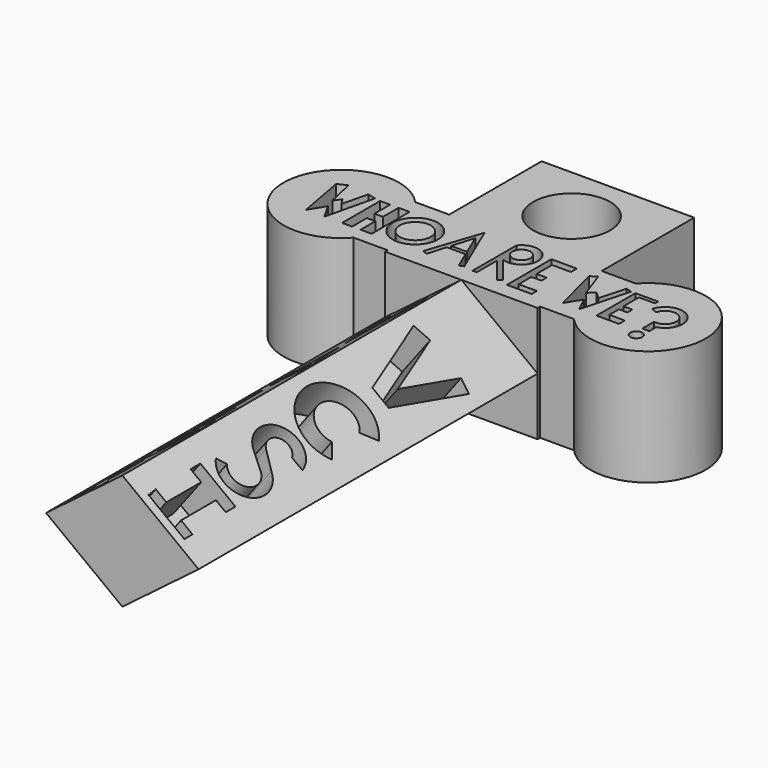
from build123d import *

# Parameters (mm, degrees)
F0_R     = 6.35
F1_DEPTH = 19.05
F3_DEPTH = 69.85
F5_DEPTH = 7.62
F6_R     = 3.7308363244
F6_R_2   = 2.5566692752
F6_R_3   = 1.4847463739
F6_R_4   = 0.9834738448
F7_DEPTH = 7.62
F8_R     = 5.375793912
F8_R_2   = 2.9959266517
F8_R_3   = 1.4654397964
F9_DEPTH = 7.62


with BuildPart() as f1:
    # F0 (on Top) → F1 (new body)
    with BuildSketch(Plane.XY):
        Polygon((-7.2489807278, 40.0127134857), (-32.3949807278, 40.0127134857), (-32.3949807278, 20.9627134857), (-19.8219807278, 20.9627134857), (-7.2489807278, 20.9627134857), align=None)
        with Locations((-19.8219807278, 30.4877134857)):
            Circle(F0_R, mode=Mode.SUBTRACT)
        Polygon((-19.8219807278, 20.9627134857), (-32.3949807278, 20.9627134857), (-37.9954648992, 20.9627134857), (-45.0949807278, 20.9627134857), (-45.0949807278, 8.2627134857), (-37.9954648992, 8.2627134857), (-32.3949807278, 8.2627134857), (-19.8219807278, 8.2627134857), align=None)
        Polygon((-1.6484965563, 20.9627134857), (-7.2489807278, 20.9627134857), (-19.8219807278, 20.9627134857), (-19.8219807278, 8.2627134857), (-7.2489807278, 8.2627134857), (-1.6484965563, 8.2627134857), (5.4510192722, 8.2627134857), (5.4510192722, 20.9627134857), align=None)
        with BuildLine():
            ThreePointArc((-1.6484965563, 8.2627134857), (14.9760192722, 14.6127134857), (-1.6484965563, 20.9627134857))
            Line((-1.6484965563, 20.9627134857), (5.4510192722, 20.9627134857))
            Line((5.4510192722, 20.9627134857), (5.4510192722, 8.2627134857))
            Line((5.4510192722, 8.2627134857), (-1.6484965563, 8.2627134857))
        make_face()
        with BuildLine():
            Line((-45.0949807278, 20.9627134857), (-37.9954648992, 20.9627134857))
            ThreePointArc((-37.9954648992, 20.9627134857), (-54.6199807278, 14.6127134857), (-37.9954648992, 8.2627134857))
            Line((-37.9954648992, 8.2627134857), (-45.0949807278, 8.2627134857))
            Line((-45.0949807278, 8.2627134857), (-45.0949807278, 20.9627134857))
        make_face()
        Polygon((-19.8219807278, -62.1057427843), (-19.8219807278, 8.2627134857), (-32.3949807278, 8.2627134857), (-32.3949807278, -45.4855053057), (-32.3949807278, -62.1057427843), align=None)
        Polygon((-7.2489807278, 8.2627134857), (-19.8219807278, 8.2627134857), (-19.8219807278, -62.1057427843), (-7.2489807278, -62.1057427843), (-7.2489807278, -45.4855053057), align=None)
    extrude(amount=F1_DEPTH)

    # F2 (on face) → F3 (cut)
    with BuildSketch(Plane.XZ.offset(62.1057427843)):
        Polygon((-7.2489807278, 19.05), (-19.8219807278, 19.05), (-7.2489807278, 9.525), align=None)
        Polygon((-7.2489807278, 0), (-7.2489807278, 9.525), (-19.8219807278, 0), align=None)
        Polygon((-19.8219807278, 0), (-32.3949807278, 9.525), (-32.3949807278, 0), align=None)
        Polygon((-32.3949807278, 9.525), (-19.8219807278, 19.05), (-32.3949807278, 19.05), align=None)
    extrude(amount=-F3_DEPTH, mode=Mode.SUBTRACT)

    # F4 (on face) → F5 (cut)
    with BuildSketch(Plane(origin=(1.941372255, 0, 2.5626113767), x_dir=(0.7970921482, 0, -0.603857688), z_dir=(0.603857688, 0, 0.7970921482))):
        Polygon((-22.4414020184, -3.5018214989), (-25.2070780843, -4.1756043211), (-20.8209604025, -17.0434247702), (-17.4470283091, -17.0434247702), (-13.7356976047, -4.1756043211), (-16.0718182763, -3.5018214989), (-18.9912109774, -13.623856987), align=None)
        with BuildLine():
            Line((-16.5130108705, -23.9663783476), (-14.3175468283, -22.1902052494))
            ThreePointArc((-14.3175468283, -22.1902052494), (-25.2788456852, -25.3796842634), (-15.2942013906, -30.9140972693))
            Line((-15.2942013906, -30.9140972693), (-17.2991389661, -28.8815116944))
            ThreePointArc((-17.2991389661, -28.8815116944), (-22.4511104186, -25.5370701612), (-16.5130108705, -23.9663783476))
        make_face()
        with BuildLine():
            Line((-18.1253950489, -36.264386009), (-16.0028406488, -36.264386009))
            ThreePointArc((-16.0028406488, -36.264386009), (-22.237133863, -34.1678212549), (-21.6870955644, -40.7221674098))
            Line((-21.6870955644, -40.7221674098), (-21.4033412526, -40.8618388823))
            Line((-21.4033412526, -40.8618388823), (-18.6979664709, -42.1934968127))
            ThreePointArc((-18.6979664709, -42.1934968127), (-17.805316798, -45.971002363), (-21.6837275404, -46.1268925006))
            Line((-21.6837275404, -46.1268925006), (-23.0957365854, -47.0235973219))
            ThreePointArc((-23.0957365854, -47.0235973219), (-16.5803039673, -47.0965885124), (-17.9304689648, -40.7221674098))
            Line((-17.9304689648, -40.7221674098), (-20.8361911365, -38.9310287424))
            ThreePointArc((-20.8361911365, -38.9310287424), (-21.181852825, -35.8684820808), (-18.1253950489, -36.264386009))
        make_face()
        Polygon((-23.5201064497, -51.8032535911), (-21.3270522654, -51.8032535911), (-21.3270522654, -58.9891783893), (-23.5201064497, -58.9891783893), (-23.3514122665, -60.6603249907), (-15.9287583083, -60.6603249907), (-15.9248236824, -58.9891783893), (-18.2908926059, -58.9836076057), (-18.2908926059, -51.8032535911), (-16.2661504, -51.8032535911), (-16.2661504, -49.7978813946), (-23.5201064497, -49.7978813946), align=None)
    extrude(amount=-F5_DEPTH, mode=Mode.SUBTRACT)

    # F6 (on face) → F7 (cut)
    with BuildSketch(Plane.XY.offset(19.05)):
        Polygon((-47.6265437901, 19.2425753921), (-49.1034947336, 18.5475405306), (-47.6265437901, 10.4677481577), (-46.0627116263, 13.0741326138), (-44.5857606828, 10.4677481577), (-42.6744148135, 18.5475405306), (-44.0536325745, 18.8738066088), (-45.0949807278, 14.6127134857), (-45.8020754158, 15.767397359), (-46.5839877725, 14.6127134857), align=None)
        Polygon((-40.0680266321, 18.3737799525), (-41.7187400162, 18.3737799525), (-41.7187400162, 10.5546275154), (-40.0680266321, 10.5546275154), (-40.0680266321, 13.5954096913), (-38.6779569089, 13.5954096913), (-38.6779569089, 10.5546275154), (-36.8534885347, 10.5546275154), (-36.8534885347, 18.3737799525), (-38.6779569089, 18.3737799525), (-38.6779569089, 15.1592399925), (-40.0680266321, 15.1592399925), align=None)
        with Locations((-32.9334177077, 14.6429436281)):
            Circle(F6_R)
        with Locations((-32.9334177077, 14.6429436281)):
            Circle(F6_R_2, mode=Mode.SUBTRACT)
        Polygon((-28.6722499877, 10.930940708), (-27.8454553336, 10.6361750513), (-26.9509410187, 13.6617395802), (-23.8558506999, 13.6617395802), (-22.5666966289, 10.6361750513), (-21.8748999421, 10.930940708), (-25.6830733269, 19.8684870977), align=None)
        Polygon((-26.7642643303, 14.2931463197), (-25.6830733269, 17.950117588), (-24.1248849779, 14.2931463197), align=None, mode=Mode.SUBTRACT)
        with BuildLine():
            ThreePointArc((-19.1996415995, 15.522752639), (-15.4855125667, 18.698662875), (-20.277114585, 19.6587203719))
            Line((-20.277114585, 19.6587203719), (-20.277114585, 10.6361750513))
            Line((-20.277114585, 10.6361750513), (-19.5764687218, 10.6209483636))
            Line((-19.5764687218, 10.6209483636), (-19.5764687218, 14.8337427527))
            Line((-19.5764687218, 14.8337427527), (-16.2067469209, 10.6209483636))
            Line((-16.2067469209, 10.6209483636), (-15.6408558156, 11.0735922429))
            Line((-15.6408558156, 11.0735922429), (-19.1996415995, 15.522752639))
        make_face()
        with Locations((-18.1147307158, 18.0137176067)):
            Circle(F6_R_3, mode=Mode.SUBTRACT)
        Polygon((-14.3623612821, 19.4765068591), (-14.3623612821, 18.2045157999), (-14.3623612821, 10.3181777522), (-10.2919926867, 10.3181777522), (-10.2919926867, 11.3993696868), (-13.2811702788, 11.3993696868), (-13.2811702788, 14.0069490299), (-11.6275819018, 14.0069490299), (-11.6275819018, 15.0881409645), (-13.2811702788, 15.0881409645), (-13.2811702788, 18.2681158185), (-10.1647935808, 18.2681158185), (-10.1647935808, 19.4765068591), align=None)
        Polygon((-6.6032223403, 19.4129068404), (-7.6208142564, 18.8405103981), (-5.5856304243, 10.8269741759), (-4.059240222, 13.307354413), (-2.8508498799, 10.8269741759), (-0.688467233, 18.8405103981), (-1.6783971289, 19.1076343206), (-2.8471908201, 14.7762221194), (-4.059240222, 15.914933756), (-5.0123902091, 14.9003969456), align=None)
        Polygon((3.7634971086, 18.8405103981), (0, 18.8405103981), (0, 10.8269741759), (3.6998975556, 10.8269741759), (3.6998975556, 12.0353642851), (1.155917882, 12.0353642851), (1.155917882, 14.0069490299), (2.5551067665, 14.0069490299), (2.5551067665, 15.0245409459), (1.0923184454, 15.0245409459), (1.0923184454, 18.2045157999), (3.7634971086, 18.2045157999), align=None)
        with BuildLine():
            Line((8.0157754377, 11.6897411644), (8.0157754377, 13.1132101043))
            ThreePointArc((8.0157754377, 13.1132101043), (9.2906726378, 17.9918709417), (4.4065576995, 16.7380305581))
            Line((4.4065576995, 16.7380305581), (5.4185776811, 16.3613322383))
            ThreePointArc((5.4185776811, 16.3613322383), (8.7769295928, 16.9241412775), (6.8552905373, 14.1129876144))
            Line((6.8552905373, 14.1129876144), (6.8552905373, 11.6897411644))
            Line((6.8552905373, 11.6897411644), (8.0157754377, 11.6897411644))
        make_face()
        with Locations((7.3434626684, 9.843500331)):
            Circle(F6_R_4)
    extrude(amount=-F7_DEPTH, mode=Mode.SUBTRACT)

    # F8 (on face) → F9 (cut)
    with BuildSketch(Plane(origin=(-16.3973091919, 0, 21.6444481333), x_dir=(0.7970921482, 0, 0.603857688), z_dir=(-0.603857688, 0, 0.7970921482))):
        Polygon((-16.1283887493, 5.1434262709), (-18.0649999529, 4.3614474125), (-13.2068023086, -7.6701310463), (-7.8931516036, 4.3614474125), (-9.6637685504, 5.1434262709), (-13.2068023086, -2.092034091), align=None)
        Polygon((-7.5319922083, -20.2953479307), (-11.8404328823, -9.4748679549), (-16.1283887493, -20.3032903373), (-13.9844108158, -21.1522859189), (-13.6450712385, -20.2953479307), (-10.0002641949, -20.2953479307), (-9.6542435851, -21.1522859189), align=None)
        Polygon((-12.9124218491, -18.4451803233), (-11.8404328823, -15.7380747277), (-10.7473382337, -18.4451803233), align=None, mode=Mode.SUBTRACT)
        Polygon((-14.3950106576, -22.9136440903), (-17.1892698854, -22.9136440903), (-17.1892698854, -35.1256467402), (-10.2858040482, -35.1256467402), (-10.2858040482, -32.5204208493), (-14.3950106576, -32.5204208493), align=None)
        with Locations((-12.4225923792, -42.4528494477)):
            Circle(F8_R)
        with Locations((-12.4225923792, -42.4528494477)):
            Circle(F8_R_2, mode=Mode.SUBTRACT)
        with BuildLine():
            ThreePointArc((-14.7370621041, -54.3357072103), (-12.5204211101, -49.6615479814), (-17.682377249, -49.3217383088))
            Line((-17.682377249, -49.3217383088), (-17.682377249, -60.5266168714))
            Line((-17.682377249, -60.5266168714), (-16.0386934876, -60.5266168714))
            Line((-16.0386934876, -60.5266168714), (-16.0386934876, -56.1302937567))
            Line((-16.0386934876, -56.1302937567), (-12.1832482711, -60.5266168714))
            Line((-12.1832482711, -60.5266168714), (-10.5578636572, -59.1012026851))
            Line((-10.5578636572, -59.1012026851), (-14.7370621041, -54.3357072103))
        make_face()
        with Locations((-15.2168544009, -51.2454919517)):
            Circle(F8_R_3, mode=Mode.SUBTRACT)
    extrude(amount=-F9_DEPTH, mode=Mode.SUBTRACT)


solid = f1.part
